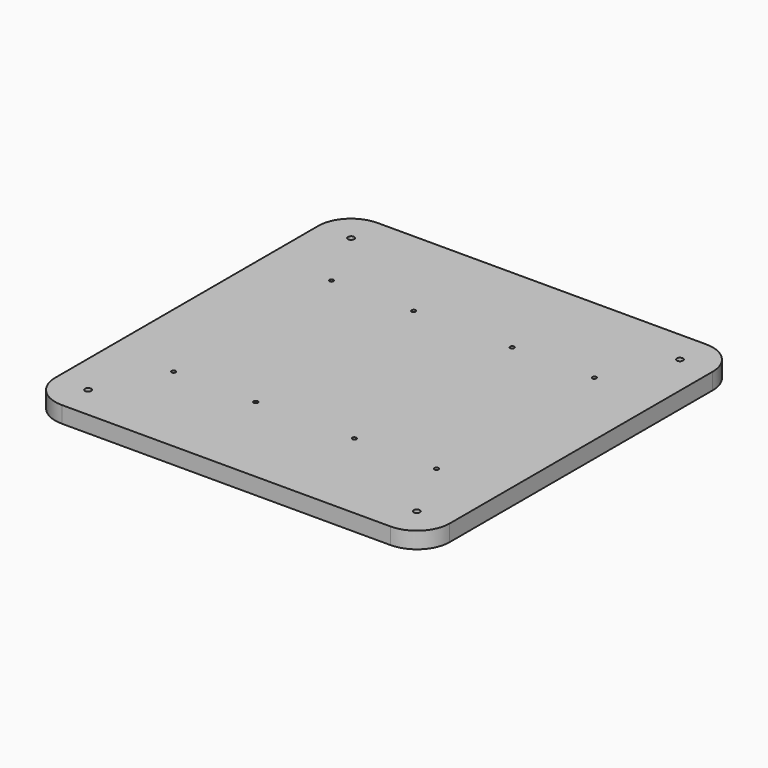
from build123d import *

# Parameters (mm, degrees)
F1_DEPTH = 12.7
F2_D     = 4.7752
F3_D     = 3.175


with BuildPart() as f1:
    # F0 (on Top) → F1 (new body)
    with BuildSketch(Plane.XY):
        with BuildLine():
            Line((62.082380751, 145.1066806704), (-191.917619249, 145.1066806704))
            ThreePointArc((-191.917619249, 145.1066806704), (-209.8781314912, 137.6671929125), (-217.317619249, 119.7066806704))
            Line((-217.317619249, 119.7066806704), (-217.317619249, -134.2933193296))
            ThreePointArc((-217.317619249, -134.2933193296), (-209.8781314912, -152.2538315718), (-191.917619249, -159.6933193296))
            Line((-191.917619249, -159.6933193296), (62.082380751, -159.6933193296))
            ThreePointArc((62.082380751, -159.6933193296), (80.0428929931, -152.2538315718), (87.482380751, -134.2933193296))
            Line((87.482380751, -134.2933193296), (87.482380751, 119.7066806704))
            ThreePointArc((87.482380751, 119.7066806704), (80.0428929931, 137.6671929125), (62.082380751, 145.1066806704))
        make_face()
    extrude(amount=F1_DEPTH)

    # F2 (through all)
    with Locations(Plane(origin=(0, 0, 0), x_dir=(1, 0, 0), z_dir=(0, 0, -1))):
        with Locations((-191.917619249, -119.7066806704), (62.082380751, 134.2933193296), (62.082380751, -119.7066806704), (-191.917619249, 134.2933193296)):
            Hole(F2_D / 2)

    # F3 (through all)
    with Locations(Plane(origin=(0, 0, 0), x_dir=(1, 0, 0), z_dir=(0, 0, -1))):
        with Locations((-26.817619249, -68.9066806704), (-103.017619249, -68.9066806704), (-166.517619249, -68.9066806704), (-166.517619249, 83.4933193296), (-103.017619249, 83.4933193296), (-26.817619249, 83.4933193296), (36.682380751, 83.4933193296), (36.682380751, -68.9066806704)):
            Hole(F3_D / 2)


solid = f1.part
